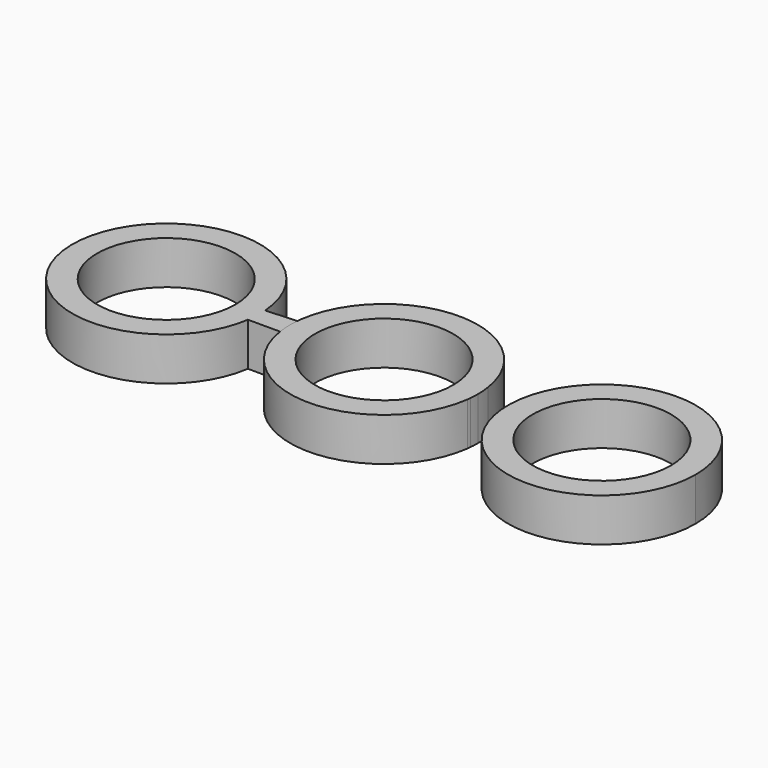
from build123d import *

# Parameters (mm, degrees)
F0_R     = 11.2
F1_DEPTH = 7


with BuildPart() as f1:
    # F0 (on Top) → F1 (new body)
    with BuildSketch(Plane.XY):
        with BuildLine():
            ThreePointArc((-20.0708194183, 0.0059993199), (-20.0802947379, 0.5426183037), (-20.1087088833, 1.0785682564))
            ThreePointArc((-20.1087088833, 1.0785682564), (-50.4589911673, 0.605531574), (-20.2404302275, -2.2583771442))
            ThreePointArc((-20.2404302275, -2.2583771442), (-20.1132814306, -1.1293606008), (-20.0708194183, 0.0059993199))
        make_face()
        with Locations((-35.2708194183, 0.0059993199)):
            Circle(F0_R, mode=Mode.SUBTRACT)
        with BuildLine():
            ThreePointArc((-15.0312917833, -2.2583771442), (-15.1936035889, -0.4409194749), (-15.1369616844, 1.3828922469))
            Line((-15.1369616844, 1.3828922469), (-20.1087088833, 1.0785682564))
            ThreePointArc((-20.1087088833, 1.0785682564), (-20.0802947379, 0.5426183037), (-20.0708194183, 0.0059993199))
            ThreePointArc((-20.0708194183, 0.0059993199), (-20.1132814306, -1.1293606008), (-20.2404302275, -2.2583771442))
            Line((-20.2404302275, -2.2583771442), (-15.0312917833, -2.2583771442))
        make_face()
    extrude(amount=F1_DEPTH)


with BuildPart() as f1b:
    # F0 (on Top) → F1, piece 2 (new body)
    with BuildSketch(Plane.XY):
        with BuildLine():
            ThreePointArc((15.1369632135, -1.3828755088), (15.1842326254, -0.6921557464), (15.2, 0))
            ThreePointArc((15.2, 0), (15.1577642663, 1.1323349535), (15.0312917833, 2.2583771442))
            ThreePointArc((15.0312917833, 2.2583771442), (-0.1626088496, 15.1991301844), (-15.0761684857, 1.9362705882))
            ThreePointArc((-15.0761684857, 1.9362705882), (-15.1089867075, 1.6598655655), (-15.1367380355, 1.3829059366))
            ThreePointArc((-15.1367380355, 1.3829059366), (-15.1926579272, -0.440956222), (-15.0296198963, -2.2583771442))
            ThreePointArc((-15.0296198963, -2.2583771442), (0.1664113859, -15.1930981105), (15.0769377803, -1.9302712683))
            ThreePointArc((15.0769377803, -1.9302712683), (15.1094296333, -1.6568452417), (15.1369632135, -1.3828755088))
        make_face()
        Circle(F0_R, mode=Mode.SUBTRACT)
    extrude(amount=F1_DEPTH)


with BuildPart() as f1c:
    # F0 (on Top) → F1, piece 3 (new body)
    with BuildSketch(Plane.XY):
        with BuildLine():
            ThreePointArc((50.4715887129, 0), (36.4039236664, 15.1577642663), (20.2402969296, 2.2583771442))
            ThreePointArc((20.2402969296, 2.2583771442), (34.1392537594, -15.1577642663), (50.4715887129, 0))
        make_face()
        with Locations((35.2715887129, 0)):
            Circle(F0_R, mode=Mode.SUBTRACT)
    extrude(amount=F1_DEPTH)


solid = Compound([f1.part, f1b.part, f1c.part])
